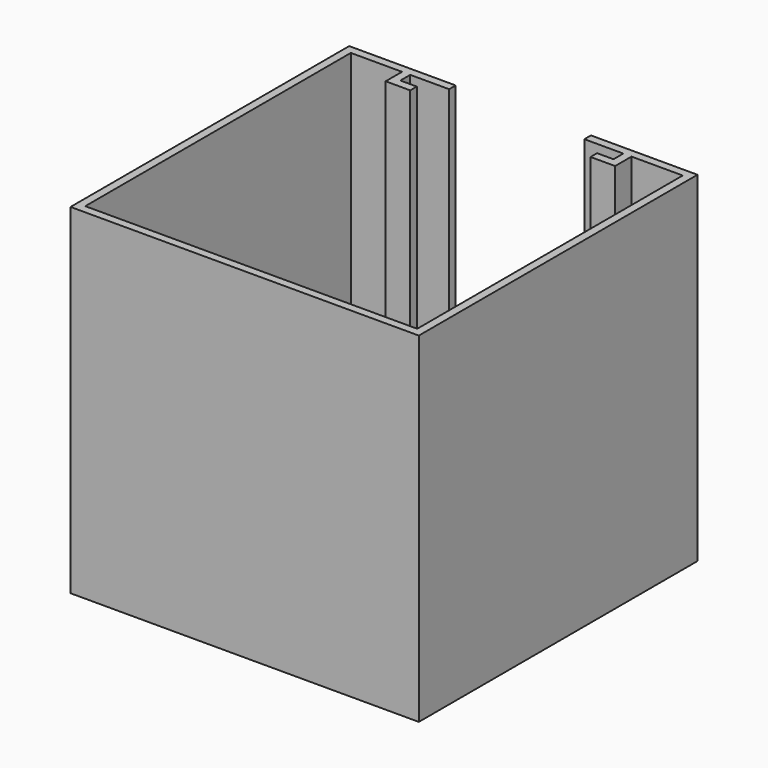
from build123d import *

# Parameters (mm, degrees)
SKETCH_W        = 85
SKETCH_H        = 85
PAD_DEPTH       = 83
POCKET_DEPTH    = 82
SKETCH002_W     = 33
SKETCH002_H     = 82
POCKET001_DEPTH = 5


with BuildPart() as part:
    # Sketch → Pad (new body)
    with BuildSketch(Plane.XY):
        Rectangle(SKETCH_W, SKETCH_H)
    extrude(amount=PAD_DEPTH)

    # Sketch001 (on DatumPlane) → Pocket (cut)
    with BuildSketch(Plane(origin=(0, 0, 83), x_dir=(1, 0, 0), z_dir=(0, 0, -1))):
        Polygon((-40.5, 40.5), (-40.5, -40.5), (-28, -40.5), (-28, -35.5), (-22, -35.5), (-22, -37.5), (-26, -37.5), (-26, -40.5), (26, -40.5), (26, -37.5), (22, -37.5), (22, -35.5), (28, -35.5), (28, -40.5), (40.5, -40.5), (40.5, 40.5), align=None)
    extrude(amount=POCKET_DEPTH, mode=Mode.SUBTRACT)

    # Sketch002 (on DatumPlane) → Pocket001 (cut)
    with BuildSketch(Plane.XZ.offset(-42.5)):
        with Locations((0, 42)):
            Rectangle(SKETCH002_W, SKETCH002_H)
    extrude(amount=POCKET001_DEPTH, mode=Mode.SUBTRACT)


solid = part.part
